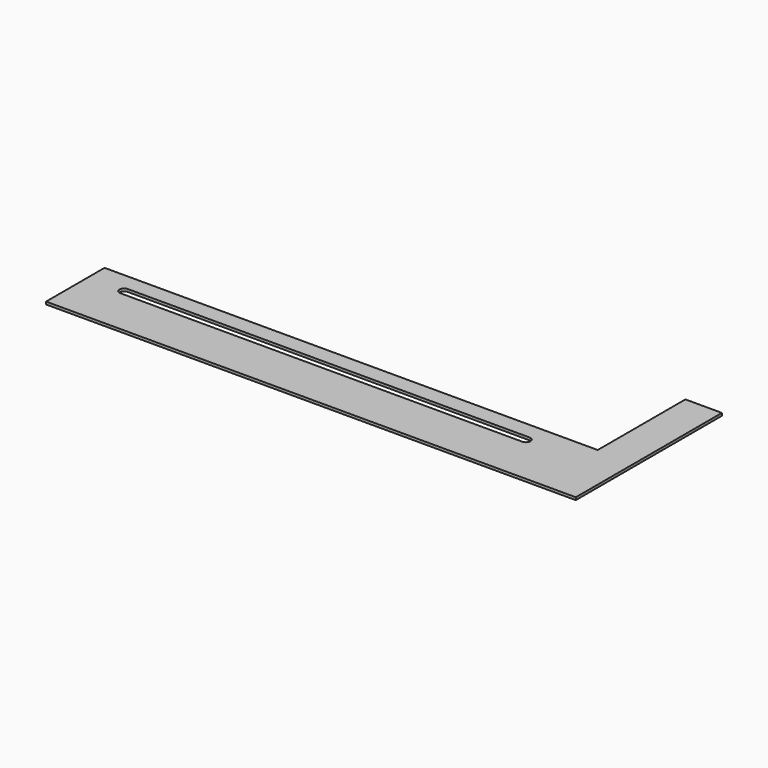
from build123d import *

# Parameters (mm, degrees)
F0_W          = 50.8
F0_H          = 1.8034
F1_DEPTH      = 171.45
F1_DEPTH_BACK = 171.45
F2_W          = 25.4
F2_H          = 127
F3_DEPTH      = 1.8034
F5_DEPTH      = 1.8044


with BuildPart() as f1:
    # F0 (on Right) → F1 (new body, two sides)
    with BuildSketch(Plane.YZ) as f1_sk:
        Rectangle(F0_W, F0_H)
    extrude(amount=F1_DEPTH)
    extrude(f1_sk.sketch, amount=-F1_DEPTH_BACK)

    # F2 (on face) → F3 (join)
    with BuildSketch(Plane.XY.offset(0.9017)):
        with Locations((184.15, 38.1)):
            Rectangle(F2_W, F2_H)
    extrude(amount=-F3_DEPTH)

    # F4 (on face) → F5 (cut, through all)
    with BuildSketch(Plane.XY.offset(0.9017)):
        with BuildLine():
            ThreePointArc((-146.05, 13.81125), (-149.225, 10.63625), (-146.05, 7.46125))
            Line((-146.05, 7.46125), (133.35, 7.46125))
            ThreePointArc((133.35, 7.46125), (136.525, 10.63625), (133.35, 13.81125))
            Line((133.35, 13.81125), (-146.05, 13.81125))
        make_face()
    extrude(amount=-F5_DEPTH, mode=Mode.SUBTRACT)


solid = f1.part
